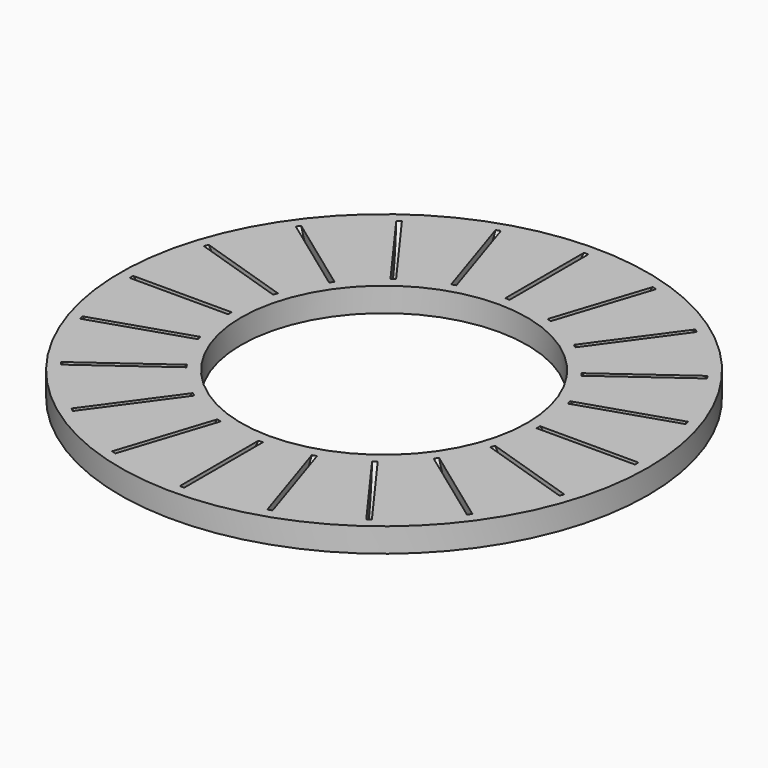
from build123d import *

# Parameters (mm, degrees)
F0_R     = 24
F0_R_2   = 13
F1_DEPTH = 2.2
F2_R     = 6
F3_DEPTH = 0.2
F4_COUNT = 20


with BuildPart() as f1:
    # F0 (on Top) → F1 (new body)
    with BuildSketch(Plane.XY):
        Circle(F0_R)
        Circle(F0_R_2, mode=Mode.SUBTRACT)
    extrude(amount=F1_DEPTH)


with BuildPart() as f3:
    # F2 (on Front) → F3 (new body, symmetric)
    with BuildSketch(Plane.XZ):
        with Locations((18.5, 6.2)):
            Circle(F2_R)
    extrude(amount=F3_DEPTH, both=True)


with BuildPart() as f4_1:
    # F4: instance of F3
    add(f3.part.rotate(Axis((0, 0, 3.1), (0, 0, 1)), 1 * 360 / F4_COUNT))


with BuildPart() as f4_2:
    # F4: instance of F3
    add(f3.part.rotate(Axis((0, 0, 3.1), (0, 0, 1)), 2 * 360 / F4_COUNT))


with BuildPart() as f4_3:
    # F4: instance of F3
    add(f3.part.rotate(Axis((0, 0, 3.1), (0, 0, 1)), 3 * 360 / F4_COUNT))


with BuildPart() as f4_4:
    # F4: instance of F3
    add(f3.part.rotate(Axis((0, 0, 3.1), (0, 0, 1)), 4 * 360 / F4_COUNT))


with BuildPart() as f4_5:
    # F4: instance of F3
    add(f3.part.rotate(Axis((0, 0, 3.1), (0, 0, 1)), 5 * 360 / F4_COUNT))


with BuildPart() as f4_6:
    # F4: instance of F3
    add(f3.part.rotate(Axis((0, 0, 3.1), (0, 0, 1)), 6 * 360 / F4_COUNT))


with BuildPart() as f4_7:
    # F4: instance of F3
    add(f3.part.rotate(Axis((0, 0, 3.1), (0, 0, 1)), 7 * 360 / F4_COUNT))


with BuildPart() as f4_8:
    # F4: instance of F3
    add(f3.part.rotate(Axis((0, 0, 3.1), (0, 0, 1)), 8 * 360 / F4_COUNT))


with BuildPart() as f4_9:
    # F4: instance of F3
    add(f3.part.rotate(Axis((0, 0, 3.1), (0, 0, 1)), 9 * 360 / F4_COUNT))


with BuildPart() as f4_10:
    # F4: instance of F3
    add(f3.part.rotate(Axis((0, 0, 3.1), (0, 0, 1)), 10 * 360 / F4_COUNT))


with BuildPart() as f4_11:
    # F4: instance of F3
    add(f3.part.rotate(Axis((0, 0, 3.1), (0, 0, 1)), 11 * 360 / F4_COUNT))


with BuildPart() as f4_12:
    # F4: instance of F3
    add(f3.part.rotate(Axis((0, 0, 3.1), (0, 0, 1)), 12 * 360 / F4_COUNT))


with BuildPart() as f4_13:
    # F4: instance of F3
    add(f3.part.rotate(Axis((0, 0, 3.1), (0, 0, 1)), 13 * 360 / F4_COUNT))


with BuildPart() as f4_14:
    # F4: instance of F3
    add(f3.part.rotate(Axis((0, 0, 3.1), (0, 0, 1)), 14 * 360 / F4_COUNT))


with BuildPart() as f4_15:
    # F4: instance of F3
    add(f3.part.rotate(Axis((0, 0, 3.1), (0, 0, 1)), 15 * 360 / F4_COUNT))


with BuildPart() as f4_16:
    # F4: instance of F3
    add(f3.part.rotate(Axis((0, 0, 3.1), (0, 0, 1)), 16 * 360 / F4_COUNT))


with BuildPart() as f4_17:
    # F4: instance of F3
    add(f3.part.rotate(Axis((0, 0, 3.1), (0, 0, 1)), 17 * 360 / F4_COUNT))


with BuildPart() as f4_18:
    # F4: instance of F3
    add(f3.part.rotate(Axis((0, 0, 3.1), (0, 0, 1)), 18 * 360 / F4_COUNT))


with BuildPart() as f4_19:
    # F4: instance of F3
    add(f3.part.rotate(Axis((0, 0, 3.1), (0, 0, 1)), 19 * 360 / F4_COUNT))


with BuildPart() as f1_1:
    add(f1.part)

    # F5: cut F3, F4_18, F4_16, F4_15, F4_17, F4_19, F4_13, F4_11, F4_8, F4_12, F4_14, F4_9, F4_10, F4_7, F4_5, F4_3, F4_4, F4_2, F4_1, F4_6
    add(f3.part, mode=Mode.SUBTRACT)
    add(f4_18.part, mode=Mode.SUBTRACT)
    add(f4_16.part, mode=Mode.SUBTRACT)
    add(f4_15.part, mode=Mode.SUBTRACT)
    add(f4_17.part, mode=Mode.SUBTRACT)
    add(f4_19.part, mode=Mode.SUBTRACT)
    add(f4_13.part, mode=Mode.SUBTRACT)
    add(f4_11.part, mode=Mode.SUBTRACT)
    add(f4_8.part, mode=Mode.SUBTRACT)
    add(f4_12.part, mode=Mode.SUBTRACT)
    add(f4_14.part, mode=Mode.SUBTRACT)
    add(f4_9.part, mode=Mode.SUBTRACT)
    add(f4_10.part, mode=Mode.SUBTRACT)
    add(f4_7.part, mode=Mode.SUBTRACT)
    add(f4_5.part, mode=Mode.SUBTRACT)
    add(f4_3.part, mode=Mode.SUBTRACT)
    add(f4_4.part, mode=Mode.SUBTRACT)
    add(f4_2.part, mode=Mode.SUBTRACT)
    add(f4_1.part, mode=Mode.SUBTRACT)
    add(f4_6.part, mode=Mode.SUBTRACT)


solid = f1_1.part
